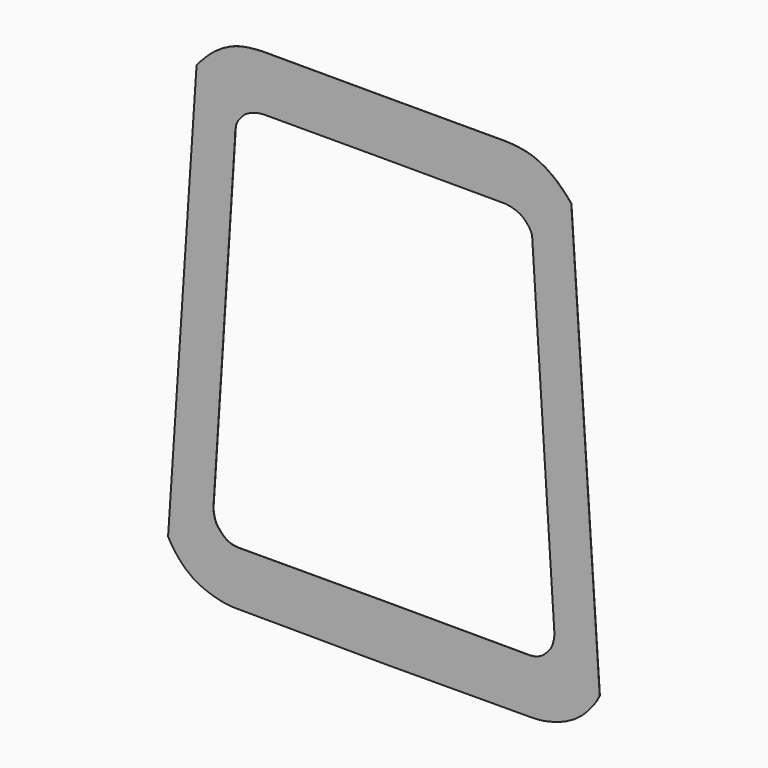
from build123d import *

# Parameters (mm, degrees)
F1_DEPTH = 4


with BuildPart() as f1:
    # F0 (on Front) → F1 (new body)
    with BuildSketch(Plane.XZ):
        Polygon((-3207.6136, 3893.1088), (-3290.316, 3797.0968), (-3790.5944, -3651.8596), (-3731.4886, -3758.1586), (-3681.4506, -3830.0406), (-3626.8914, -3898.7476), (-3554.1458, -3981.8818), (-3475.4312, -4059.0978), (-3351.911, -4153.3318), (-3216.1734, -4229.3794), (-3105.6326, -4275.7344), (-2991.8406, -4313.5296), (-2894.1014, -4340.0218), (-2794.9144, -4360.0116), (-2680.462, -4372.5846), (-2565.3746, -4374.769), (0, -4385.9704), (2565.3746, -4374.769), (2680.4874, -4372.5846), (2794.9144, -4360.0116), (2894.1014, -4340.0218), (2991.8406, -4313.5296), (3105.6326, -4275.7344), (3216.1734, -4229.3794), (3351.911, -4153.3318), (3475.4566, -4059.0978), (3554.1458, -3981.8818), (3626.8914, -3898.7476), (3681.4506, -3830.0406), (3731.514, -3758.1586), (3790.5944, -3651.8596), (3290.316, 3797.0968), (3207.639, 3893.1088), (3119.247, 3984.0408), (3043.3264, 4054.1956), (2963.3926, 4119.8038), (2835.656, 4206.8242), (2698.4452, 4277.8934), (2601.0108, 4315.333), (2500.63, 4343.654), (2374.9508, 4366.3108), (2247.7476, 4379.468), (2133.5746, 4385.9704), (0, 4384.3194), (-2133.5746, 4385.9704), (-2247.7476, 4379.468), (-2374.9508, 4366.3108), (-2500.63, 4343.654), (-2601.0108, 4315.333), (-2698.4452, 4277.8934), (-2835.656, 4206.8242), (-2963.3926, 4119.8038), (-3043.3264, 4054.1956), (-3119.247, 3984.0408), align=None)
        Polygon((-2133.5746, 3419.1448), (0, 3422.0404), (2133.5746, 3419.1448), (2234.2856, 3403.2444), (2331.847, 3372.5358), (2399.9698, 3339.6682), (2445.7406, 3306.2418), (2487.3204, 3267.202), (2554.5034, 3186.0744), (2579.0144, 3143.4532), (2596.642, 3097.8094), (2610.485, 3004.2866), (2613.787, 2904.2614), (2993.0344, -2922.016), (2991.8406, -2988.1576), (2982.7728, -3053.6388), (2965.831, -3118.2564), (2942.8186, -3177.2352), (2903.093, -3232.5056), (2861.056, -3280.918), (2815.1582, -3328.7716), (2763.1898, -3367.8114), (2702.8394, -3397.25), (2651.5822, -3412.4392), (2565.3746, -3423.4628), (0, -3418.0018), (-2565.3746, -3423.4628), (-2651.5822, -3412.4392), (-2702.8394, -3397.25), (-2763.1898, -3367.8114), (-2815.1582, -3328.7716), (-2861.056, -3280.918), (-2903.093, -3232.5056), (-2942.8186, -3177.2352), (-2965.831, -3118.2564), (-2982.7728, -3053.6388), (-2991.8406, -2988.1576), (-2993.0344, -2922.016), (-2613.787, 2904.2614), (-2610.4596, 3004.2866), (-2596.642, 3097.8094), (-2578.989, 3143.4532), (-2554.478, 3186.0744), (-2487.295, 3267.202), (-2445.7406, 3306.2418), (-2399.9698, 3339.6682), (-2331.847, 3372.5358), (-2234.2856, 3403.2444), align=None, mode=Mode.SUBTRACT)
    extrude(amount=F1_DEPTH)


solid = f1.part
